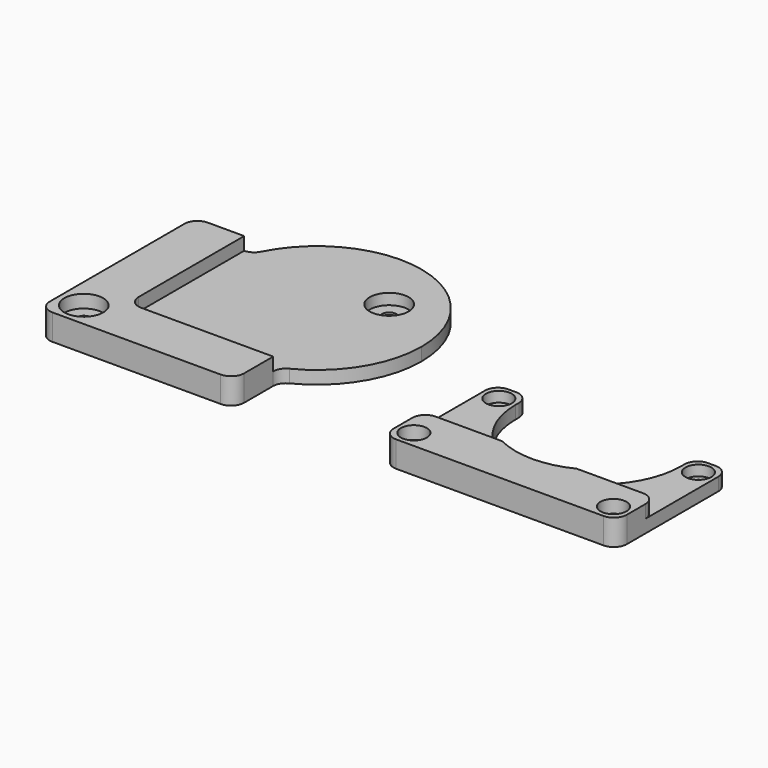
from build123d import *

# Parameters (mm, degrees)
F0_W      = 19.05
F0_H      = 19.05
F0_R      = 2.8
F1_DEPTH  = 5
F2_DEPTH  = 10
F4_R      = 7.5
F4_R_2    = 2.8
F5_DEPTH  = 4.2
F3_R      = 7.5
F3_R_2    = 2.8
F6_DEPTH  = 5
F7_R      = 5
F8_R      = 5
F8_W      = 13
F8_H      = 19.05
F8_R_2    = 2.8
F9_DEPTH  = 5
F10_DEPTH = 10
F11_R     = 5
F11_R_2   = 2.8
F12_DEPTH = 4
F13_R     = 5


with BuildPart() as f1:
    # F0 (on Top) → F1 (new body)
    with BuildSketch(Plane.XY):
        Polygon((-37.5, -18.45), (-18.45, -18.45), (-18.45, 21.973952651), (-18.45, 37.5), (-37.5, 37.5), align=None)
        with Locations((-27.975, -27.975)):
            Rectangle(F0_W, F0_H)
        with Locations((-27.975, -27.975)):
            Circle(F0_R, mode=Mode.SUBTRACT)
        Polygon((-18.45, -37.5), (37.5, -37.5), (37.5, -18.45), (21.9739524238, -18.45), (-18.45, -18.45), align=None)
        with BuildLine():
            Line((-18.45, 21.973952651), (-18.45, -18.45))
            Line((-18.45, -18.45), (21.9739524238, -18.45))
            ThreePointArc((21.9739524238, -18.45), (-6.6100984712, -6.6100983105), (-18.45, 21.973952651))
        make_face()
        with BuildLine():
            Line((-18.45, 37.5), (-18.45, 21.973952651))
            ThreePointArc((-18.45, 21.973952651), (-17.6672896125, 29.8902560645), (-15.349468972, 37.5))
            Line((-15.349468972, 37.5), (-18.45, 37.5))
        make_face()
        with BuildLine():
            Line((21.9739524238, -18.45), (37.5, -18.45))
            Line((37.5, -18.45), (37.5, -15.349468972))
            ThreePointArc((37.5, -15.349468972), (29.8902559531, -17.6672896348), (21.9739524238, -18.45))
        make_face()
        with BuildLine():
            ThreePointArc((21.9739524238, -18.45), (29.8902559531, -17.6672896348), (37.5, -15.349468972))
            Line((37.5, -15.349468972), (37.5, 34.7))
            ThreePointArc((37.5, 34.7), (35.5201010127, 35.5201010127), (34.7, 37.5))
            Line((34.7, 37.5), (-15.349468972, 37.5))
            ThreePointArc((-15.349468972, 37.5), (-17.6672896125, 29.8902560645), (-18.45, 21.973952651))
            ThreePointArc((-18.45, 21.973952651), (-6.6100984712, -6.6100983105), (21.9739524238, -18.45))
        make_face()
        with BuildLine():
            Line((37.5, 34.7), (37.5, -15.349468972))
            ThreePointArc((37.5, -15.349468972), (55.6022156959, -0.4589667426), (62.397905302, 21.973952651))
            ThreePointArc((62.397905302, 21.973952651), (29.8902560645, 61.6151949146), (-15.349468972, 37.5))
            Line((-15.349468972, 37.5), (34.7, 37.5))
            ThreePointArc((34.7, 37.5), (37.5, 40.3), (40.3, 37.5))
            ThreePointArc((40.3, 37.5), (39.4798989873, 35.5201010127), (37.5, 34.7))
        make_face()
    extrude(amount=F1_DEPTH)

    # F0 (on Top) → F2 (join)
    with BuildSketch(Plane.XY):
        Polygon((-18.45, -37.5), (37.5, -37.5), (37.5, -18.45), (21.9739524238, -18.45), (-18.45, -18.45), align=None)
        Polygon((-37.5, -18.45), (-18.45, -18.45), (-18.45, 21.973952651), (-18.45, 37.5), (-37.5, 37.5), align=None)
        with Locations((-27.975, -27.975)):
            Rectangle(F0_W, F0_H)
        with Locations((-27.975, -27.975)):
            Circle(F0_R, mode=Mode.SUBTRACT)
    extrude(amount=F2_DEPTH)

    # F4 (on face) → F5 (cut)
    with BuildSketch(Plane.XY.offset(5)):
        with Locations((37.5, 37.5)):
            Circle(F4_R)
        with Locations((37.5, 37.5)):
            Circle(F4_R_2, mode=Mode.SUBTRACT)
    extrude(amount=-F5_DEPTH, mode=Mode.SUBTRACT)

    # F3 (on face) → F6 (cut)
    with BuildSketch(Plane.XY.offset(10)):
        with Locations((-27.975, -27.975)):
            Circle(F3_R)
        with Locations((-27.975, -27.975)):
            Circle(F3_R_2, mode=Mode.SUBTRACT)
    extrude(amount=-F6_DEPTH, mode=Mode.SUBTRACT)

    # F7 (call 1 of 6: OpenCascade refuses the feature's edges together)
    f7_edges = [f1.edges().sort_by_distance(p)[0] for p in [
        (37.5, -15.349469, 2.5),
    ]]
    fillet(f7_edges, radius=F7_R)

    # F7#2 (call 2 of 6)
    f7_2_edges = [f1.edges().sort_by_distance(p)[0] for p in [
        (-15.349469, 37.5, 2.5),
    ]]
    fillet(f7_2_edges, radius=F7_R)

    # F7#3 (call 3 of 6)
    f7_3_edges = [f1.edges().sort_by_distance(p)[0] for p in [
        (-18.45, -18.45, 7.5),
    ]]
    fillet(f7_3_edges, radius=F7_R)

    # F7#4 (call 4 of 6)
    f7_4_edges = [f1.edges().sort_by_distance(p)[0] for p in [
        (-37.5, -37.5, 5),
    ]]
    fillet(f7_4_edges, radius=F7_R)

    # F7#5 (call 5 of 6)
    f7_5_edges = [f1.edges().sort_by_distance(p)[0] for p in [
        (37.5, -37.5, 5),
    ]]
    fillet(f7_5_edges, radius=F7_R)

    # F7#6 (call 6 of 6)
    f7_6_edges = [f1.edges().sort_by_distance(p)[0] for p in [
        (-37.5, 37.5, 5),
    ]]
    fillet(f7_6_edges, radius=F7_R)


with BuildPart() as f9:
    # F8 (on Top) → F9 (new body)
    with BuildSketch(Plane.XY):
        with BuildLine():
            Line((108.2003896236, 10.1430903487), (108.2003896236, -18.45))
            Line((108.2003896236, -18.45), (125.8325371637, -18.45))
            ThreePointArc((125.8325371637, -18.45), (112.9628119164, -6.6531699684), (108.2003896236, 10.1430903487))
        make_face()
        with BuildLine():
            Line((108.2003896236, -18.45), (108.2003896236, -37.5))
            Line((108.2003896236, -37.5), (172.2003896236, -37.5))
            Line((172.2003896236, -37.5), (172.2003896236, -18.45))
            Line((172.2003896236, -18.45), (154.5682420836, -18.45))
            ThreePointArc((154.5682420836, -18.45), (140.2003896236, -21.8569096513), (125.8325371637, -18.45))
            Line((125.8325371637, -18.45), (108.2003896236, -18.45))
        make_face()
        with BuildLine():
            Line((154.5682420836, -18.45), (172.2003896236, -18.45))
            Line((172.2003896236, -18.45), (172.2003896236, 10.1430903487))
            ThreePointArc((172.2003896236, 10.1430903487), (167.4379673309, -6.6531699684), (154.5682420836, -18.45))
        make_face()
        Polygon((95.2003896236, 16.6262220591), (95.2003896236, -18.45), (108.2003896236, -18.45), (108.2003896236, 10.1430903487), (108.2003896236, 16.6262220591), align=None)
        with Locations((101.7003896236, 10.1430903487)):
            Circle(F8_R, mode=Mode.SUBTRACT)
        with Locations((101.7003896236, -27.975)):
            Rectangle(F8_W, F8_H)
        with Locations((101.7003896236, -30.8300182223)):
            Circle(F8_R, mode=Mode.SUBTRACT)
        with BuildLine():
            Line((108.2003896236, -18.45), (108.2003896236, -37.5))
            Line((108.2003896236, -37.5), (172.2003896236, -37.5))
            Line((172.2003896236, -37.5), (172.2003896236, -18.45))
            Line((172.2003896236, -18.45), (154.5682420836, -18.45))
            ThreePointArc((154.5682420836, -18.45), (140.2003896236, -21.8569096513), (125.8325371637, -18.45))
            Line((125.8325371637, -18.45), (108.2003896236, -18.45))
        make_face()
        Polygon((172.2003896236, 10.1430903487), (172.2003896236, -18.45), (185.2003896236, -18.45), (185.2003896236, 16.6262220591), (172.2003896236, 16.6262220591), align=None)
        with Locations((178.7003896236, 10.1430903487)):
            Circle(F8_R, mode=Mode.SUBTRACT)
        with Locations((178.7003896236, -27.975)):
            Rectangle(F8_W, F8_H)
        with Locations((178.7003896236, -30.8300182223)):
            Circle(F8_R, mode=Mode.SUBTRACT)
        with Locations((101.7003896236, -30.8300182223)):
            Circle(F8_R)
        with Locations((101.7003896236, -30.8300182223)):
            Circle(F8_R_2, mode=Mode.SUBTRACT)
        with Locations((101.7003896236, 10.1430903487)):
            Circle(F8_R)
        with Locations((101.7003896236, 10.1430903487)):
            Circle(F8_R_2, mode=Mode.SUBTRACT)
        with Locations((178.7003896236, 10.1430903487)):
            Circle(F8_R)
        with Locations((178.7003896236, 10.1430903487)):
            Circle(F8_R_2, mode=Mode.SUBTRACT)
        with Locations((178.7003896236, -30.8300182223)):
            Circle(F8_R)
        with Locations((178.7003896236, -30.8300182223)):
            Circle(F8_R_2, mode=Mode.SUBTRACT)
    extrude(amount=F9_DEPTH)

    # F8 (on Top) → F10 (join)
    with BuildSketch(Plane.XY):
        with Locations((101.7003896236, -27.975)):
            Rectangle(F8_W, F8_H)
        with Locations((101.7003896236, -30.8300182223)):
            Circle(F8_R, mode=Mode.SUBTRACT)
        with BuildLine():
            Line((108.2003896236, -18.45), (108.2003896236, -37.5))
            Line((108.2003896236, -37.5), (172.2003896236, -37.5))
            Line((172.2003896236, -37.5), (172.2003896236, -18.45))
            Line((172.2003896236, -18.45), (154.5682420836, -18.45))
            ThreePointArc((154.5682420836, -18.45), (140.2003896236, -21.8569096513), (125.8325371637, -18.45))
            Line((125.8325371637, -18.45), (108.2003896236, -18.45))
        make_face()
        with Locations((178.7003896236, -27.975)):
            Rectangle(F8_W, F8_H)
        with Locations((178.7003896236, -30.8300182223)):
            Circle(F8_R, mode=Mode.SUBTRACT)
    extrude(amount=F10_DEPTH)

    # F11 (on face) → F12 (cut)
    with BuildSketch(Plane.XY.offset(5)):
        with Locations((101.7003896236, 10.1430903487)):
            Circle(F11_R)
        with Locations((101.7003896236, 10.1430903487)):
            Circle(F11_R_2, mode=Mode.SUBTRACT)
        with Locations((178.7003896236, 10.1430903487)):
            Circle(F11_R)
    extrude(amount=-F12_DEPTH, mode=Mode.SUBTRACT)

    # F13
    f13_edges = [f9.edges().sort_by_distance(p)[0] for p in [
        (95.20039, 16.626222, 2.5),
        (108.20039, 16.626222, 2.5),
        (172.20039, 16.626222, 2.5),
        (185.20039, 16.626222, 2.5),
        (95.20039, -37.5, 5),
        (185.20039, -37.5, 5),
        (95.20039, -18.45, 7.5),
        (185.20039, -18.45, 7.5),
    ]]
    fillet(f13_edges, radius=F13_R)


solid = Compound([f1.part, f9.part])
